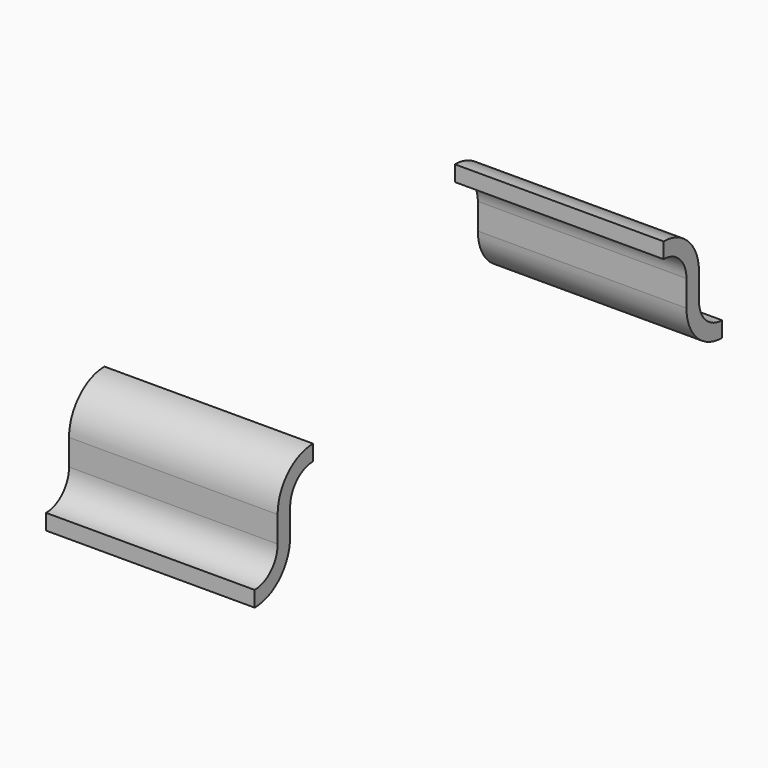
from build123d import *

# Parameters (mm, degrees)
EXTRUDE_DEPTH = 2


with BuildPart() as pin003:
    # Sketch031 → Extrude (new body)
    with BuildSketch(Plane.YZ):
        with BuildLine():
            ThreePointArc((-0.7, 0), (-0.39948, 0.12448), (-0.275, 0.425))
            Line((-0.275, 0.675), (-0.275, 0.425))
            ThreePointArc((0, 0.95), (-0.194454, 0.869454), (-0.275, 0.675))
            Line((0, 1.1), (0, 0.95))
            ThreePointArc((0, 1.1), (-0.30052, 0.97552), (-0.425, 0.675))
            Line((-0.425, 0.675), (-0.425, 0.425))
            ThreePointArc((-0.7, 0.15), (-0.505546, 0.230546), (-0.425, 0.425))
            Line((-0.7, 0.15), (-0.7, 0))
        make_face()
    extrude(amount=EXTRUDE_DEPTH)


with BuildPart() as pin003_1:
    # Extrude placement: moved
    add(pin003.part.moved(Location((0.7, 0, 0))))


with BuildPart() as pin004:
    # Clone011 base: copy of Pin003
    add(pin003_1.part)


with BuildPart() as pin001:
    # Part__Mirroring: instance of Pin004
    add(pin004.part.mirror(Plane(origin=(0, 0, 0), x_dir=(1, 0, 0), z_dir=(0, 1, 0))))


with BuildPart() as pin001_1:
    # Part__Mirroring placement: moved
    add(pin001.part.moved(Location((0, 4.2, 0))))


with BuildPart() as pins003:
    # Fusion028 base: copy of Pin003
    add(pin003_1.part)

    # Fusion028: union Pin001
    add(pin001_1.part)


solid = pins003.part
